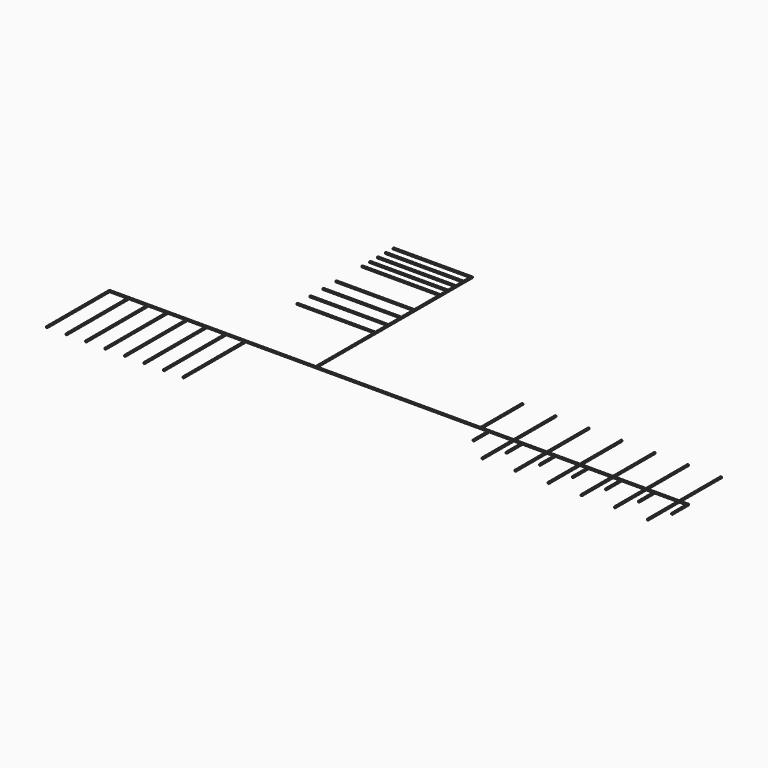
from build123d import *

# Parameters (mm, degrees)
F0_W     = 2.54
F0_H     = 101.6
F0_H_2   = 76.2
F0_H_3   = 38.1
F0_W_2   = 304.8
F0_H_4   = 2.54
F0_H_5   = 152.4
F0_W_3   = 152.4
F1_DEPTH = 2.54


with BuildPart() as f1:
    # F0 (on Top) → F1 (new body)
    with BuildSketch(Plane.XY):
        Polygon((203.2, -1.27), (203.2, 1.27), (200.66, 1.27), (138.43, 1.27), (135.89, 1.27), (73.66, 1.27), (71.12, 1.27), (8.89, 1.27), (6.35, 1.27), (-55.88, 1.27), (-58.42, 1.27), (-120.65, 1.27), (-123.19, 1.27), (-185.42, 1.27), (-187.96, 1.27), (-203.2, 1.27), (-203.2, -1.27), (-187.96, -1.27), (-185.42, -1.27), (-170.942, -1.27), (-168.402, -1.27), (-123.19, -1.27), (-120.65, -1.27), (-106.172, -1.27), (-103.632, -1.27), (-58.42, -1.27), (-55.88, -1.27), (-41.402, -1.27), (-38.862, -1.27), (6.35, -1.27), (8.89, -1.27), (23.368, -1.27), (25.908, -1.27), (71.12, -1.27), (73.66, -1.27), (88.138, -1.27), (90.678, -1.27), (135.89, -1.27), (138.43, -1.27), (152.908, -1.27), (155.448, -1.27), (200.66, -1.27), align=None)
        Polygon((220.218, 1.27), (203.2, 1.27), (203.2, -1.27), (217.678, -1.27), (220.218, -1.27), align=None)
        with Locations((201.93, 52.07)):
            Rectangle(F0_W, F0_H)
        with Locations((201.93, -39.37)):
            Rectangle(F0_W, F0_H_2)
        with Locations((137.16, 52.07)):
            Rectangle(F0_W, F0_H)
        with Locations((218.948, -20.32)):
            Rectangle(F0_W, F0_H_3)
        with Locations((154.178, -20.32)):
            Rectangle(F0_W, F0_H_3)
        with Locations((72.39, 52.07)):
            Rectangle(F0_W, F0_H)
        with Locations((137.16, -39.37)):
            Rectangle(F0_W, F0_H_2)
        with Locations((7.62, 52.07)):
            Rectangle(F0_W, F0_H)
        with Locations((89.408, -20.32)):
            Rectangle(F0_W, F0_H_3)
        with Locations((-57.15, 52.07)):
            Rectangle(F0_W, F0_H)
        with Locations((72.39, -39.37)):
            Rectangle(F0_W, F0_H_2)
        with Locations((-121.92, 52.07)):
            Rectangle(F0_W, F0_H)
        with Locations((24.638, -20.32)):
            Rectangle(F0_W, F0_H_3)
        with Locations((-186.69, 52.07)):
            Rectangle(F0_W, F0_H)
        with Locations((7.62, -39.37)):
            Rectangle(F0_W, F0_H_2)
        with Locations((-355.6, 0)):
            Rectangle(F0_W_2, F0_H_4)
        Polygon((-508, -1.27), (-508, 1.27), (-510.54, 1.27), (-914.4, 1.27), (-914.4, -1.27), (-911.86, -1.27), (-876.3, -1.27), (-873.76, -1.27), (-838.2, -1.27), (-835.66, -1.27), (-800.1, -1.27), (-797.56, -1.27), (-762, -1.27), (-759.46, -1.27), (-723.9, -1.27), (-721.36, -1.27), (-685.8, -1.27), (-683.26, -1.27), (-647.7, -1.27), (-645.16, -1.27), align=None)
        Polygon((-510.54, 1.27), (-508, 1.27), (-508, 382.27), (-510.54, 382.27), (-510.54, 379.73), (-510.54, 363.22), (-510.54, 360.68), (-510.54, 344.17), (-510.54, 341.63), (-510.54, 325.12), (-510.54, 322.58), (-510.54, 306.07), (-510.54, 303.53), (-510.54, 242.57), (-510.54, 240.03), (-510.54, 210.82), (-510.54, 208.28), (-510.54, 179.07), (-510.54, 176.53), (-510.54, 147.32), (-510.54, 144.78), align=None)
        with Locations((-40.132, -20.32)):
            Rectangle(F0_W, F0_H_3)
        with Locations((-646.43, -77.47)):
            Rectangle(F0_W, F0_H_5)
        with Locations((-586.74, 146.05)):
            Rectangle(F0_W_3, F0_H_4)
        with Locations((-586.74, 381)):
            Rectangle(F0_W_3, F0_H_4)
        with Locations((-57.15, -39.37)):
            Rectangle(F0_W, F0_H_2)
        with Locations((-169.672, -20.32)):
            Rectangle(F0_W, F0_H_3)
        with Locations((-913.13, -77.47)):
            Rectangle(F0_W, F0_H_5)
        with Locations((-684.53, -77.47)):
            Rectangle(F0_W, F0_H_5)
        with Locations((-586.74, 177.8)):
            Rectangle(F0_W_3, F0_H_4)
        with Locations((-586.74, 361.95)):
            Rectangle(F0_W_3, F0_H_4)
        with Locations((-104.902, -20.32)):
            Rectangle(F0_W, F0_H_3)
        with Locations((-121.92, -39.37)):
            Rectangle(F0_W, F0_H_2)
        with Locations((-875.03, -77.47)):
            Rectangle(F0_W, F0_H_5)
        with Locations((-722.63, -77.47)):
            Rectangle(F0_W, F0_H_5)
        with Locations((-586.74, 209.55)):
            Rectangle(F0_W_3, F0_H_4)
        with Locations((-586.74, 342.9)):
            Rectangle(F0_W_3, F0_H_4)
        with Locations((-836.93, -77.47)):
            Rectangle(F0_W, F0_H_5)
        with Locations((-760.73, -77.47)):
            Rectangle(F0_W, F0_H_5)
        with Locations((-586.74, 241.3)):
            Rectangle(F0_W_3, F0_H_4)
        with Locations((-586.74, 323.85)):
            Rectangle(F0_W_3, F0_H_4)
        with Locations((-798.83, -77.47)):
            Rectangle(F0_W, F0_H_5)
        with Locations((-586.74, 304.8)):
            Rectangle(F0_W_3, F0_H_4)
    extrude(amount=F1_DEPTH)


solid = f1.part
